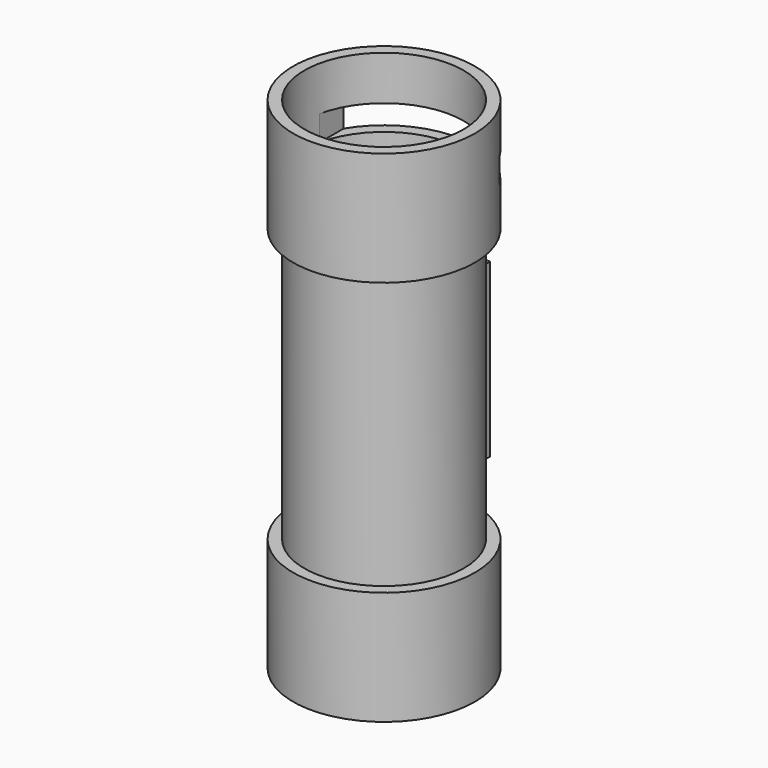
from build123d import *

# Parameters (mm, degrees)
F0_R      = 44.496964
F1_DEPTH  = 152.4
F2_R      = 50.8
F2_R_2    = 44.496964
F3_DEPTH  = 63.5
F4_R      = 50.8
F4_R_2    = 44.496964
F5_DEPTH  = 63.5
F6_W      = 87.001756
F6_H      = 14.120966
F7_DEPTH  = 66.294
F9_W      = 45.30283
F9_H      = 95.901433
F10_DEPTH = 25.4
F11_R     = 8.613658
F11_R_2   = 9.597104
F11_W     = 13.196016
F11_H     = 28.391429
F11_W_2   = 11.996375
F11_H_2   = 72.378151
F12_DEPTH = 25.4


with BuildPart() as f1:
    # F0 (on Top) → F1 (new body)
    with BuildSketch(Plane.XY):
        Circle(F0_R)
    extrude(amount=F1_DEPTH)

    # F9 (on offset) → F10 (join)
    with BuildSketch(Plane.XZ.offset(-45.72)):
        with Locations((0, 77.236965)):
            Rectangle(F9_W, F9_H)
    extrude(amount=F10_DEPTH)

    # F11 (on face) → F12 (cut)
    with BuildSketch(Plane(origin=(0, 45.72, 0), x_dir=(-1, 0, 0), z_dir=(0, 1, 0))):
        with Locations((-10.238909, 103.216775)):
            Circle(F11_R)
        with Locations((-10.238909, 47.233675)):
            Circle(F11_R_2)
        with Locations((-11.638488, 75.025286)):
            Rectangle(F11_W, F11_H)
        with Locations((10.154933, 74.625406)):
            Rectangle(F11_W_2, F11_H_2)
    extrude(amount=-F12_DEPTH, mode=Mode.SUBTRACT)


with BuildPart() as f3:
    # F2 (on face) → F3 (new body)
    with BuildSketch(Plane(origin=(0, 0, 0), x_dir=(1, 0, 0), z_dir=(0, 0, -1))):
        Circle(F2_R)
        Circle(F2_R_2, mode=Mode.SUBTRACT)
    extrude(amount=F3_DEPTH)


with BuildPart() as f5:
    # F4 (on face) → F5 (new body)
    with BuildSketch(Plane.XY.offset(152.4)):
        Circle(F4_R)
        Circle(F4_R_2, mode=Mode.SUBTRACT)
    extrude(amount=F5_DEPTH)

    # F6 (on Front) → F7 (cut)
    with BuildSketch(Plane.XZ):
        with Locations((0, 184.040651)):
            Rectangle(F6_W, F6_H)
    extrude(amount=-F7_DEPTH, mode=Mode.SUBTRACT)


solid = Compound([f1.part, f3.part, f5.part])
